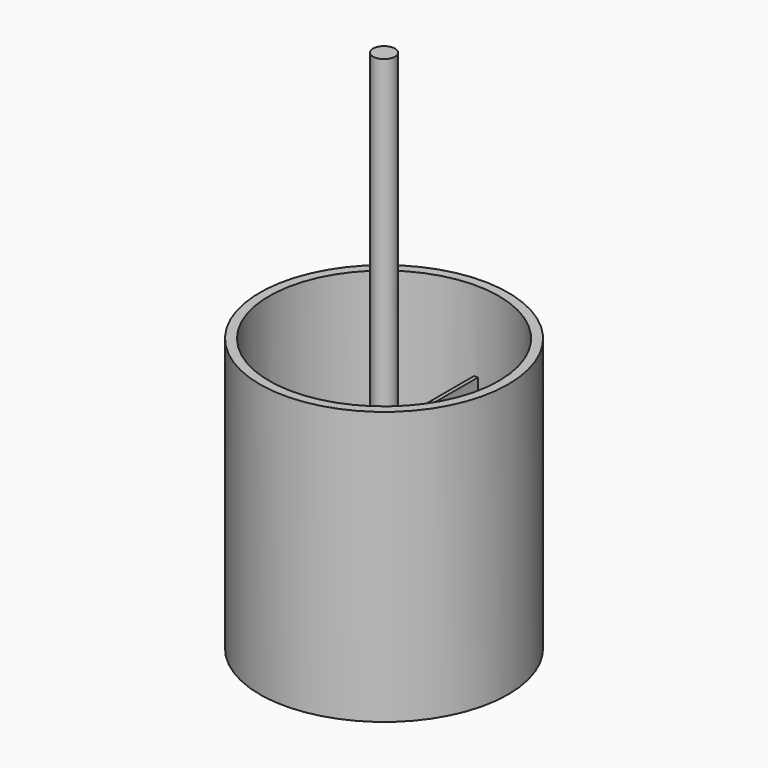
from build123d import *

# Parameters (mm, degrees)
F0_R         = 23.8211318964
F0_R_2       = 22.0256608
F3_DEPTH     = 50.17713
F3_FACE_R    = 23.8211318964
F3_FACE_R_2  = 22.0256608
F3_FACE1_R   = 23.8211318964
F3_FACE1_R_2 = 22.0256608
F4_DEPTH     = 2.16738
F1_R         = 2.1104987
F5_DEPTH     = 100.6018
F2_W         = 22.9499428533
F2_H         = 0.7366
F2_W_2       = 0.7306225889
F2_H_2       = 22.9688390891
F2_W_3       = 22.9015578225
F2_H_3       = 22.9767380224
F6_DEPTH     = 36.93024


with BuildPart() as f3:
    # F0 (on Top) → F3 (new body)
    with BuildSketch(Plane.XY):
        Circle(F0_R)
        Circle(F0_R_2, mode=Mode.SUBTRACT)
    extrude(amount=F3_DEPTH)

    # F0 (on Top) + F3_face (on face) + F3_face1 (on face) → F4 (join)
    with BuildSketch(Plane.XY):
        Circle(F0_R)
        Circle(F0_R_2, mode=Mode.SUBTRACT)
        Circle(F0_R_2)
    with BuildSketch(Plane.XY.offset(50.17713)):
        Circle(F3_FACE_R)
        Circle(F3_FACE_R_2, mode=Mode.SUBTRACT)
    with BuildSketch(Plane(origin=(0, 0, 0), x_dir=(1, 0, 0), z_dir=(0, 0, -1))):
        Circle(F3_FACE1_R)
        Circle(F3_FACE1_R_2, mode=Mode.SUBTRACT)
    extrude(amount=F4_DEPTH, dir=(0, 0, 1))

    # F1 (on Top) → F5 (join)
    with BuildSketch(Plane.XY):
        Circle(F1_R)
    extrude(amount=F5_DEPTH)

    # F2 (on Top) → F6 (join)
    with BuildSketch(Plane.XY):
        with Locations((11.8395101745, 0.0209339964)):
            Rectangle(F2_W, F2_H)
        with Locations((-0.0007725466, 0.0209339964)):
            Rectangle(F2_W_2, F2_H)
        with Locations((-0.0007725466, 11.873653541)):
            Rectangle(F2_W_2, F2_H_2)
        with Locations((-11.8168627523, 0.0209339964)):
            Rectangle(F2_W_3, F2_H)
        with Locations((-0.0007725466, -11.8357350148)):
            Rectangle(F2_W_2, F2_H_3)
    extrude(amount=F6_DEPTH)


solid = f3.part
